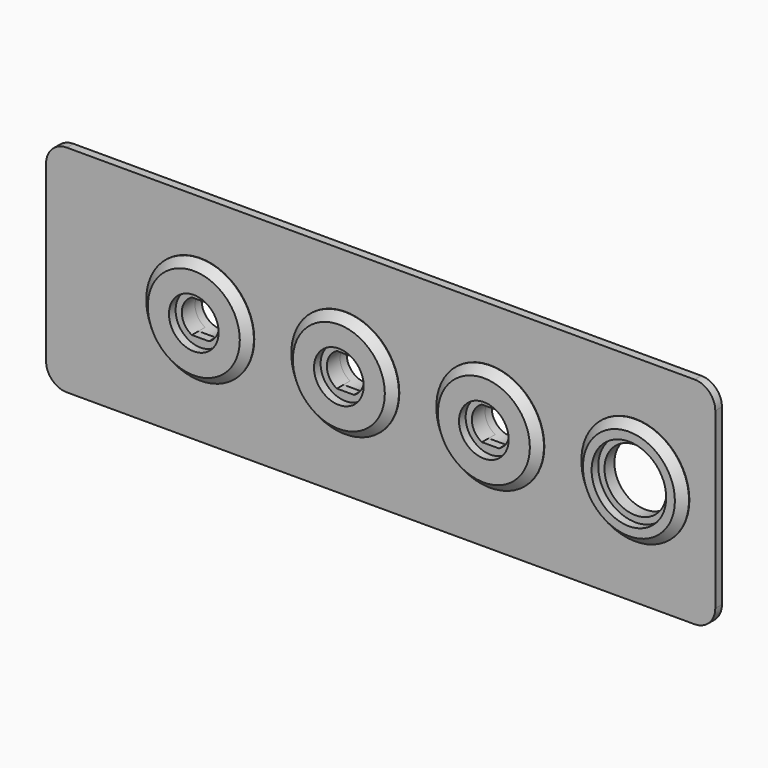
from build123d import *

# Parameters (mm, degrees)
SKETCH_W               = 133.5
SKETCH_H               = 42
PAD_DEPTH              = 2
SKETCH001_W            = 161.5
SKETCH001_H            = 52
PAD001_DEPTH           = 2
SKETCH002_R            = 7.5
POCKET_DEPTH           = 4.001
SKETCH003_R            = 12
POCKET001_DEPTH        = 1
SKETCH004_R            = 12
PAD002_DEPTH           = 2
SKETCH005_R            = 4.5
POCKET002_DEPTH        = 4
LINEARPATTERN_COUNT    = 3
LINEARPATTERN_PITCH    = 35
SKETCH006_R            = 13
SKETCH006_R_2          = 6
PAD003_DEPTH           = 2
LINEARPATTERN001_COUNT = 3
LINEARPATTERN001_PITCH = 35
CHAMFER_SIZE           = 1.9
FILLET_R               = 5
SKETCH007_R            = 13
SKETCH007_R_2          = 9
PAD004_DEPTH           = 2
CHAMFER001_SIZE        = 1.9


with BuildPart() as part:
    # Sketch → Pad (new body)
    with BuildSketch(Plane.XZ):
        with Locations((66.75, 21)):
            Rectangle(SKETCH_W, SKETCH_H)
    extrude(amount=PAD_DEPTH)

    # Sketch001 (on Face6 of Pad) → Pad001 (join)
    with BuildSketch(Plane.XZ.offset(2)):
        with Locations((57.75, 21)):
            Rectangle(SKETCH001_W, SKETCH001_H)
    extrude(amount=PAD001_DEPTH)

    # Sketch002 (on Face11 of Pad001) → Pocket (cut, through all)
    with BuildSketch(Plane.XZ.offset(4)):
        with Locations((119.25, 21)):
            Circle(SKETCH002_R)
        with BuildLine():
            ThreePointArc((12.188447, 25), (9.75, 21), (12.188447, 17))
            Line((12.188447, 17), (16.311553, 17))
            ThreePointArc((16.311553, 17), (18.75, 21), (16.311553, 25))
            Line((12.188447, 25), (16.311553, 25))
        make_face()
        with BuildLine():
            ThreePointArc((47.188447, 25), (44.75, 21), (47.188447, 17))
            Line((47.188447, 17), (51.311553, 17))
            ThreePointArc((51.311553, 17), (53.75, 21), (51.311553, 25))
            Line((51.311553, 25), (47.188447, 25))
        make_face()
        with BuildLine():
            Line((82.188447, 17), (86.311553, 17))
            ThreePointArc((86.311553, 17), (88.75, 21), (86.311553, 25))
            Line((86.311553, 25), (82.188447, 25))
            ThreePointArc((82.188447, 25), (79.75, 21), (82.188447, 17))
        make_face()
    extrude(amount=-POCKET_DEPTH, mode=Mode.SUBTRACT)

    # Sketch003 (on Face1 of Pocket) → Pocket001 (cut)
    with BuildSketch(Plane(origin=(0, 0, 0), x_dir=(1, 0, 0), z_dir=(0, 1, 0))):
        with Locations((119.25, -21)):
            Circle(SKETCH003_R)
    extrude(amount=-POCKET001_DEPTH, mode=Mode.SUBTRACT)

    # Sketch004 (on Face1 of Pocket001) → Pad002 (join)
    with BuildSketch(Plane(origin=(0, 0, 0), x_dir=(1, 0, 0), z_dir=(0, 1, 0))):
        with Locations((84.355629, -21.002337)):
            Circle(SKETCH004_R)
        with Locations((49.25, -21)):
            Circle(SKETCH004_R)
        with Locations((14.25, -21.000002)):
            Circle(SKETCH004_R)
    extrude(amount=PAD002_DEPTH)

    # Sketch005 (on Face17 of Pad002) → Pocket002 (cut)
    with BuildSketch(Plane(origin=(0, 2, 0), x_dir=(1, 0, 0), z_dir=(0, 1, 0))):
        with Locations((14.25, -21)):
            Circle(SKETCH005_R)
        with Locations((49.25, -21)):
            Circle(SKETCH005_R)
        with Locations((84.25, -21)):
            Circle(SKETCH005_R)
    pocket002 = extrude(amount=-POCKET002_DEPTH, mode=Mode.SUBTRACT)

    # LinearPattern: Pocket002 ×3
    with Locations(*[(-i * LINEARPATTERN_PITCH, 0, 0) for i in range(1, LINEARPATTERN_COUNT)]):
        add(pocket002, mode=Mode.SUBTRACT)

    # Sketch006 (on Face19 of LinearPattern) → Pad003 (join)
    with BuildSketch(Plane.XZ.offset(4)):
        with Locations((84.25, 21)):
            Circle(SKETCH006_R)
        with Locations((84.25, 21)):
            Circle(SKETCH006_R_2, mode=Mode.SUBTRACT)
    pad003 = extrude(amount=PAD003_DEPTH)

    # LinearPattern001: Pad003 ×3
    with Locations(*[(-i * LINEARPATTERN001_PITCH, 0, 0) for i in range(1, LINEARPATTERN001_COUNT)]):
        add(pad003)

    # Chamfer
    chamfer_edges = [part.edges().sort_by_distance(p)[0] for p in [
        (1.25, -6, 21),
        (36.25, -6, 21),
        (71.25, -6, 21),
    ]]
    chamfer(chamfer_edges, length=CHAMFER_SIZE)

    # Fillet
    fillet_edges = [part.edges().sort_by_distance(p)[0] for p in [
        (-23, -3, -5),
        (-23, -3, 47),
        (138.5, -3, -5),
        (138.5, -3, 47),
    ]]
    fillet(fillet_edges, radius=FILLET_R)

    # Sketch007 (on Face1 of Fillet) → Pad004 (join)
    with BuildSketch(Plane.XZ.offset(4)):
        with Locations((119.25, 21)):
            Circle(SKETCH007_R)
        with Locations((119.25, 21)):
            Circle(SKETCH007_R_2, mode=Mode.SUBTRACT)
    extrude(amount=PAD004_DEPTH)

    # Chamfer001
    chamfer001_edges = [part.edges().sort_by_distance(p)[0] for p in [
        (106.25, -6, 21),
    ]]
    chamfer(chamfer001_edges, length=CHAMFER001_SIZE)


solid = part.part
